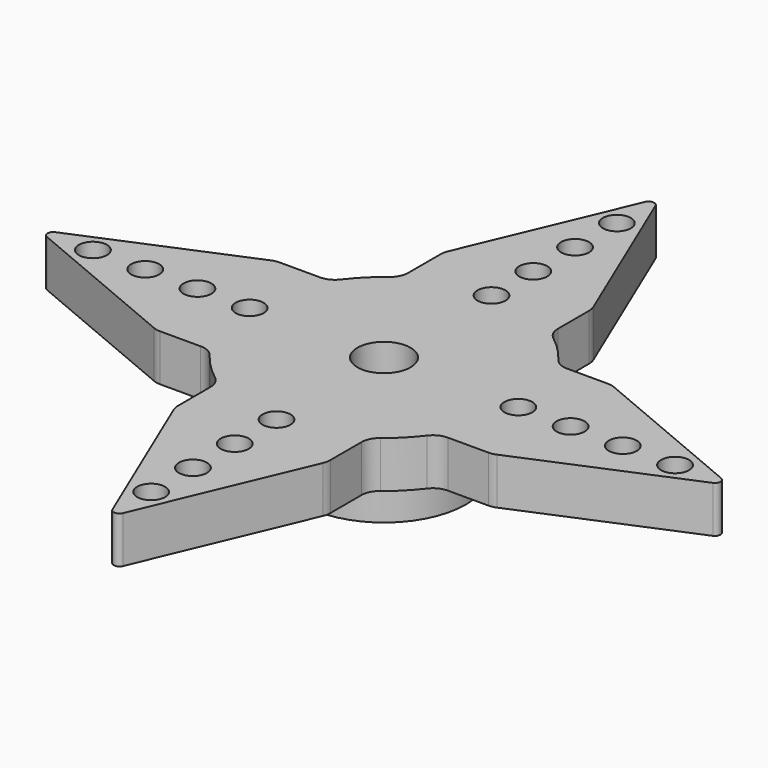
from build123d import *

# Parameters (mm, degrees)
F0_R     = 0.75
F1_DEPTH = 2.5
F2_R     = 4.4
F2_R_2   = 2.7
F3_DEPTH = 3
F4_R     = 1.425
F5_DEPTH = 25
F6_DEPTH = 0.6


with BuildPart() as f1:
    # F0 (on Top) → F1 (new body)
    with BuildSketch(Plane.XY):
        with BuildLine():
            ThreePointArc((6.62495283, 4), (6.1790882982, 4.1048995479), (5.8267657421, 4.3975903614))
            ThreePointArc((5.8267657421, 4.3975903614), (5.1832727919, 5.1403971796), (4.4458365341, 5.7900377816))
            ThreePointArc((4.4458365341, 5.7900377816), (4.1579107845, 6.1410503979), (4.0548552374, 6.5831936421))
            Line((4.0548552374, 6.5831936421), (4.0548552374, 8.6677777952))
            ThreePointArc((4.0548552374, 8.6677777952), (4.0350683201, 8.865723021), (3.9764906125, 9.0558347952))
            Line((3.9764906125, 9.0558347952), (0.2764906125, 17.8433347952))
            ThreePointArc((0.2764906125, 17.8433347952), (0, 18.0269176952), (-0.2764906125, 17.8433347952))
            Line((-0.2764906125, 17.8433347952), (-3.9216353751, 9.186115984))
            ThreePointArc((-3.9216353751, 9.186115984), (-3.9802130827, 8.9960042098), (-4, 8.798058984))
            Line((-4, 8.798058984), (-4, 6.62495283))
            ThreePointArc((-4, 6.62495283), (-4.1048995479, 6.1790882982), (-4.3975903614, 5.8267657421))
            ThreePointArc((-4.3975903614, 5.8267657421), (-5.1618795027, 5.1618795027), (-5.8267657421, 4.3975903614))
            ThreePointArc((-5.8267657421, 4.3975903614), (-6.1790882982, 4.1048995479), (-6.62495283, 4))
            Line((-6.62495283, 4), (-8.798058984, 4))
            ThreePointArc((-8.798058984, 4), (-8.9960042098, 3.9802130827), (-9.186115984, 3.9216353751))
            Line((-9.186115984, 3.9216353751), (-17.8433347952, 0.2764906125))
            ThreePointArc((-17.8433347952, 0.2764906125), (-18.0269176952, 0), (-17.8433347952, -0.2764906125))
            Line((-17.8433347952, -0.2764906125), (-9.186115984, -3.9216353751))
            ThreePointArc((-9.186115984, -3.9216353751), (-8.9960042098, -3.9802130827), (-8.798058984, -4))
            Line((-8.798058984, -4), (-6.62495283, -4))
            ThreePointArc((-6.62495283, -4), (-6.1790882982, -4.1048995479), (-5.8267657421, -4.3975903614))
            ThreePointArc((-5.8267657421, -4.3975903614), (-5.1618795027, -5.1618795027), (-4.3975903614, -5.8267657421))
            ThreePointArc((-4.3975903614, -5.8267657421), (-4.1048995479, -6.1790882982), (-4, -6.62495283))
            Line((-4, -6.62495283), (-4, -8.798058984))
            ThreePointArc((-4, -8.798058984), (-3.9802130827, -8.9960042098), (-3.9216353751, -9.186115984))
            Line((-3.9216353751, -9.186115984), (-0.2764906125, -17.8433347952))
            ThreePointArc((-0.2764906125, -17.8433347952), (0, -18.0269176952), (0.2764906125, -17.8433347952))
            Line((0.2764906125, -17.8433347952), (3.9764906125, -9.0558347952))
            ThreePointArc((3.9764906125, -9.0558347952), (4.0350683201, -8.865723021), (4.0548552374, -8.6677777952))
            Line((4.0548552374, -8.6677777952), (4.0548552374, -6.5831936421))
            ThreePointArc((4.0548552374, -6.5831936421), (4.1579107845, -6.1410503979), (4.4458365341, -5.7900377816))
            ThreePointArc((4.4458365341, -5.7900377816), (5.1832727919, -5.1403971796), (5.8267657421, -4.3975903614))
            ThreePointArc((5.8267657421, -4.3975903614), (6.1790882982, -4.1048995479), (6.62495283, -4))
            Line((6.62495283, -4), (8.798058984, -4))
            ThreePointArc((8.798058984, -4), (8.9960042098, -3.9802130827), (9.186115984, -3.9216353751))
            Line((9.186115984, -3.9216353751), (17.8433347952, -0.2764906125))
            ThreePointArc((17.8433347952, -0.2764906125), (18.0269176952, 0), (17.8433347952, 0.2764906125))
            Line((17.8433347952, 0.2764906125), (9.186115984, 3.9216353751))
            ThreePointArc((9.186115984, 3.9216353751), (8.9960042098, 3.9802130827), (8.798058984, 4))
            Line((8.798058984, 4), (6.62495283, 4))
        make_face()
        with Locations((0, -15.6)):
            Circle(F0_R, mode=Mode.SUBTRACT)
        with Locations((0, -12.8)):
            Circle(F0_R, mode=Mode.SUBTRACT)
        with Locations((0, -10)):
            Circle(F0_R, mode=Mode.SUBTRACT)
        with Locations((0, -7.2)):
            Circle(F0_R, mode=Mode.SUBTRACT)
        with Locations((-15.6, 0)):
            Circle(F0_R, mode=Mode.SUBTRACT)
        with Locations((-12.8, 0)):
            Circle(F0_R, mode=Mode.SUBTRACT)
        with Locations((-10, 0)):
            Circle(F0_R, mode=Mode.SUBTRACT)
        with Locations((-7.2, 0)):
            Circle(F0_R, mode=Mode.SUBTRACT)
        with Locations((7.2, 0)):
            Circle(F0_R, mode=Mode.SUBTRACT)
        with Locations((0, 7.2)):
            Circle(F0_R, mode=Mode.SUBTRACT)
        with Locations((10, 0)):
            Circle(F0_R, mode=Mode.SUBTRACT)
        with Locations((12.8, 0)):
            Circle(F0_R, mode=Mode.SUBTRACT)
        with Locations((15.6, 0)):
            Circle(F0_R, mode=Mode.SUBTRACT)
        with Locations((0, 10)):
            Circle(F0_R, mode=Mode.SUBTRACT)
        with Locations((0, 12.8)):
            Circle(F0_R, mode=Mode.SUBTRACT)
        with Locations((0, 15.6)):
            Circle(F0_R, mode=Mode.SUBTRACT)
    extrude(amount=F1_DEPTH)

    # F2 (on face) → F3 (join)
    with BuildSketch(Plane(origin=(0, 0, 0), x_dir=(1, 0, 0), z_dir=(0, 0, -1))):
        Circle(F2_R)
        Circle(F2_R_2, mode=Mode.SUBTRACT)
    extrude(amount=F3_DEPTH)

    # F4 (on face) → F5 (cut)
    with BuildSketch(Plane(origin=(0, 0, 0), x_dir=(1, 0, 0), z_dir=(0, 0, -1))):
        Circle(F4_R)
    extrude(amount=-F5_DEPTH, mode=Mode.SUBTRACT)

    # F6 (cut): a face of the model
    f6_faces = [f1.faces().sort_by_distance(p)[0] for p in [
        (-2.6236324676, 0, 0),
    ]]
    extrude(f6_faces, amount=-F6_DEPTH, mode=Mode.SUBTRACT)


solid = f1.part
